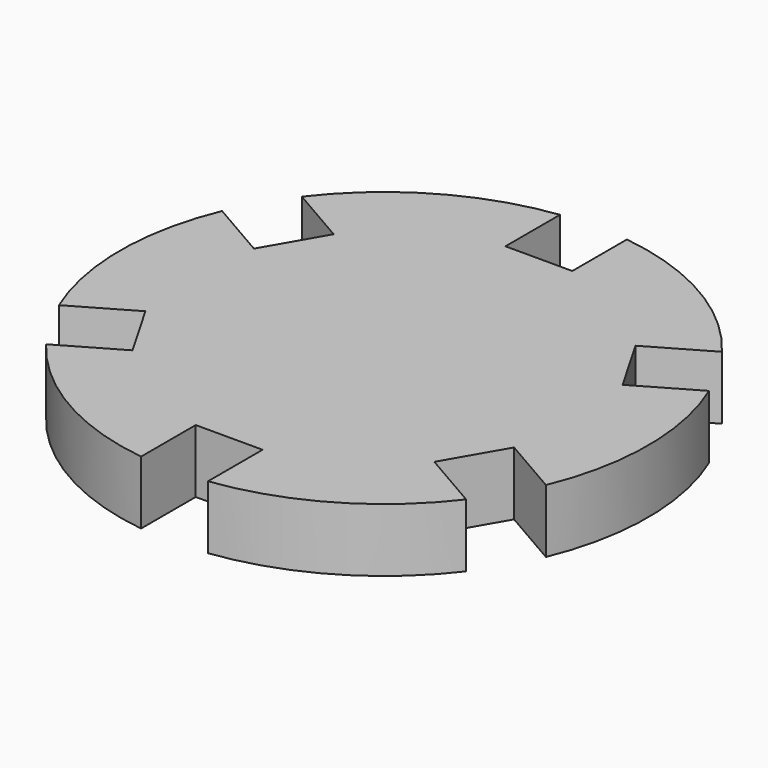
from build123d import *

# Parameters (mm, degrees)
F1_DEPTH = 18


with BuildPart() as f1:
    # F0 (on Top) → F1 (new body)
    with BuildSketch(Plane.XY):
        with BuildLine():
            Line((-9.5, 55), (-9.5, 74.3959))
            ThreePointArc((-9.5, 74.3959), (-37.5, 64.951905), (-59.67874, 45.425192))
            Line((-59.67874, 45.425192), (-42.881397, 35.727241))
            Line((-42.881397, 35.727241), (-52.381397, 19.272759))
            Line((-52.381397, 19.272759), (-69.17874, 28.970709))
            ThreePointArc((-69.17874, 28.970709), (-75, 0), (-69.17874, -28.970709))
            Line((-69.17874, -28.970709), (-52.381397, -19.272759))
            Line((-52.381397, -19.272759), (-42.881397, -35.727241))
            Line((-42.881397, -35.727241), (-59.67874, -45.425192))
            ThreePointArc((-59.67874, -45.425192), (-37.5, -64.951905), (-9.5, -74.3959))
            Line((-9.5, -74.3959), (-9.5, -55))
            Line((-9.5, -55), (9.5, -55))
            Line((9.5, -55), (9.5, -74.3959))
            ThreePointArc((9.5, -74.3959), (37.5, -64.951905), (59.67874, -45.425192))
            Line((59.67874, -45.425192), (42.881397, -35.727241))
            Line((42.881397, -35.727241), (52.381397, -19.272759))
            Line((52.381397, -19.272759), (69.17874, -28.970709))
            ThreePointArc((69.17874, -28.970709), (75, 0), (69.17874, 28.970709))
            Line((69.17874, 28.970709), (52.381397, 19.272759))
            Line((52.381397, 19.272759), (42.881397, 35.727241))
            Line((42.881397, 35.727241), (59.67874, 45.425192))
            ThreePointArc((59.67874, 45.425192), (37.5, 64.951905), (9.5, 74.3959))
            Line((9.5, 74.3959), (9.5, 55))
            Line((9.5, 55), (-9.5, 55))
        make_face()
    extrude(amount=F1_DEPTH)


solid = f1.part
